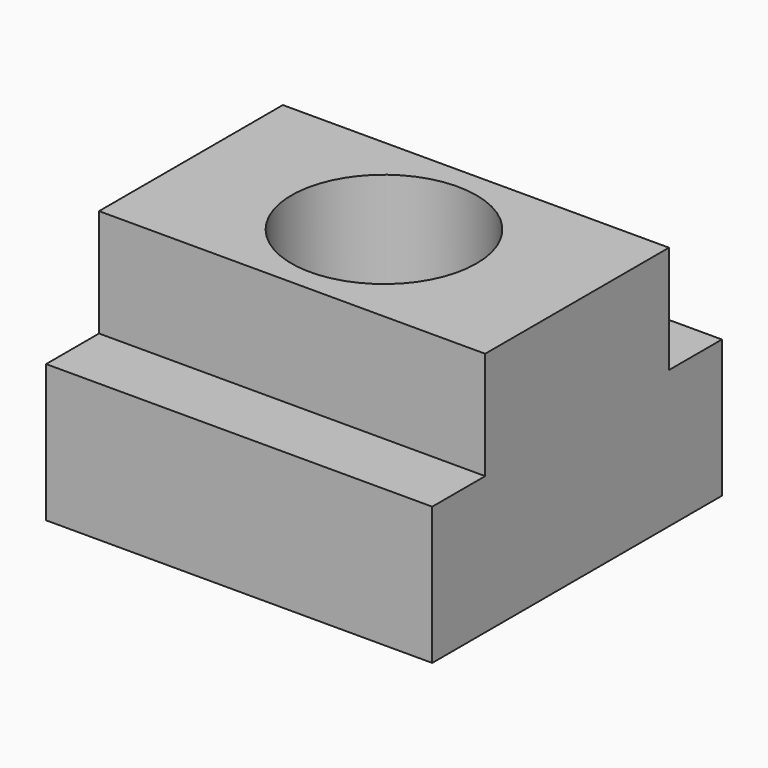
from build123d import *

# Parameters (mm, degrees)
F1_DEPTH = 29.75
F2_R     = 7.125
F3_DEPTH = 18.901


with BuildPart() as f1:
    # F0 (on Right) → F1 (new body)
    with BuildSketch(Plane.YZ):
        Polygon((8.85, 0), (-8.85, 0), (-8.85, -8.3), (-13.95, -8.3), (-13.95, -18.9), (13.95, -18.9), (13.95, -8.3), (8.85, -8.3), align=None)
    extrude(amount=F1_DEPTH)

    # F2 (on face) → F3 (cut, through all)
    with BuildSketch(Plane.XY):
        with Locations((14.875, 0)):
            Circle(F2_R)
    extrude(amount=-F3_DEPTH, mode=Mode.SUBTRACT)


solid = f1.part
